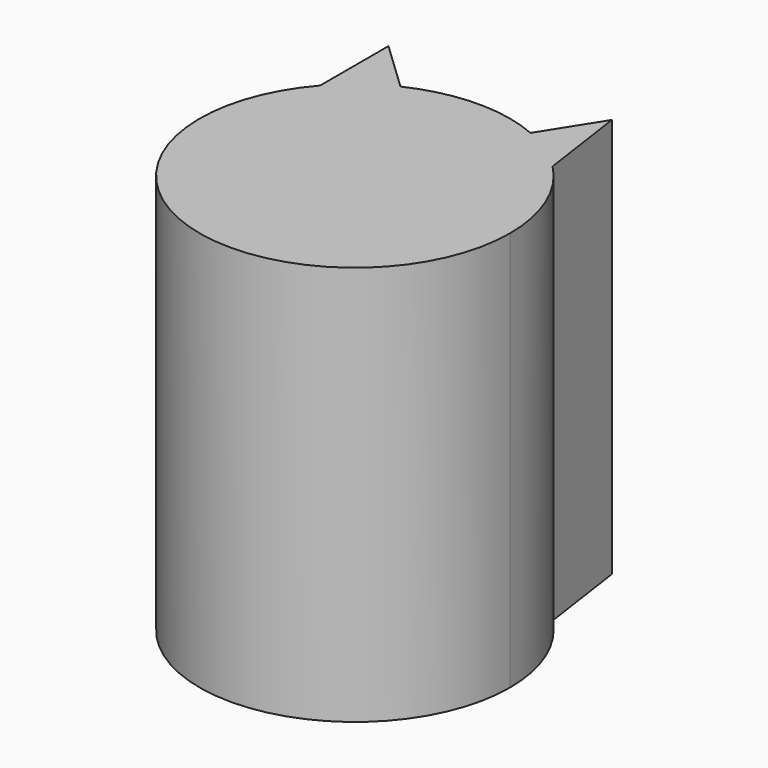
from build123d import *

# Parameters (mm, degrees)
F1_DEPTH = 40


with BuildPart() as f1:
    # F0 (on Top) → F1 (new body)
    with BuildSketch(Plane.XY):
        with BuildLine():
            ThreePointArc((-11.66812, 10.244095), (-5.473393, -14.530261), (15.526961, 0))
            ThreePointArc((15.526961, 0), (14.365024, 5.893436), (11.053118, 10.90482))
            ThreePointArc((11.053118, 10.90482), (8.769803, 12.81316), (6.164367, 14.250863))
            ThreePointArc((6.164367, 14.250863), (-0.270588, 15.524603), (-6.657245, 14.027388))
            ThreePointArc((-6.657245, 14.027388), (-9.355911, 12.391668), (-11.66812, 10.244095))
        make_face()
        with BuildLine():
            Line((-11.66812, 18.790997), (-11.66812, 10.244095))
            ThreePointArc((-11.66812, 10.244095), (-9.355911, 12.391668), (-6.657245, 14.027388))
            Line((-6.657245, 14.027388), (-11.66812, 18.790997))
        make_face()
        with BuildLine():
            ThreePointArc((6.164367, 14.250863), (8.769803, 12.81316), (11.053118, 10.90482))
            Line((11.053118, 10.90482), (9.754099, 19.938527))
            Line((9.754099, 19.938527), (6.164367, 14.250863))
        make_face()
    extrude(amount=F1_DEPTH)


solid = f1.part
